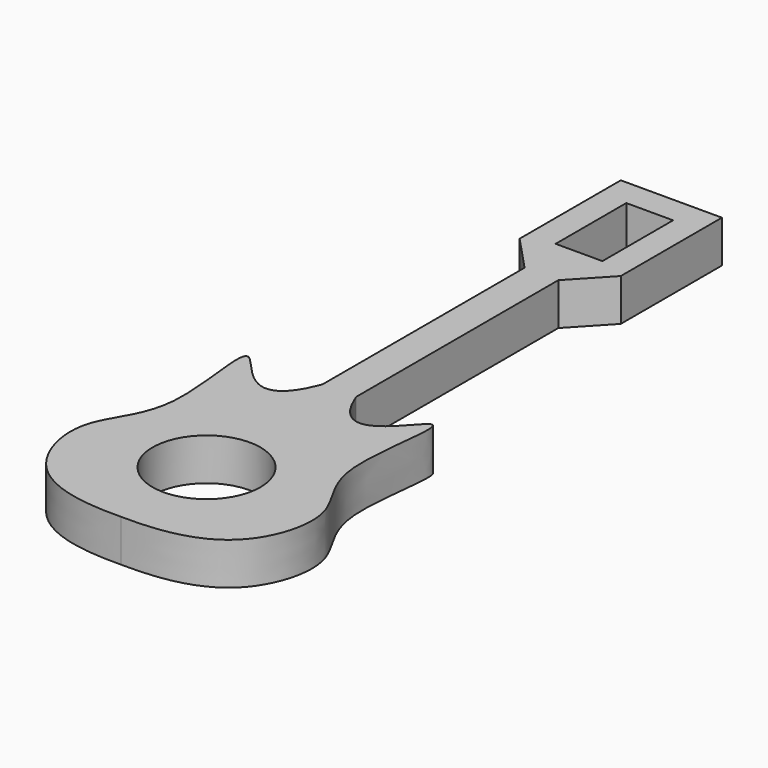
from build123d import *

# Parameters (mm, degrees)
F0_R     = 6.4
F0_W     = 5.5519272573
F0_H     = 10.4806795716
F1_DEPTH = 5


with BuildPart() as f1:
    # F0 (on Top) → F1 (new body)
    with BuildSketch(Plane.XY):
        with BuildLine():
            Line((0, 68.9363212883), (-6, 68.9363212883))
            Line((-6, 68.9363212883), (-6, 53.9363212883))
            Line((-6, 53.9363212883), (-2, 49.6677327434))
            Line((-2, 49.6677327434), (-2, 19.6677327434))
            add(Edge.make_bspline(
                [(-2, 19.6677327434), (-5.2045350894, 11.3742742687), (-13.9616531978, 27.2349557552), (-8.5925210718, 6.3765498017), (-15.2458199495, 0.8625510948), (-13.5668635451, -9.1165038385), (-7.5715340142, -12.8564407231), (0, -12.7030955628)],
                knots=[0, 0, 0, 0, 0.1866895357, 0.3977848748, 0.5894294289, 0.7644459309, 1, 1, 1, 1], degree=3))
            add(Edge.make_bspline(
                [(2, 19.6677327434), (5.2045350894, 11.3742742687), (13.9616531978, 27.2349557552), (8.5925210718, 6.3765498017), (15.2458199495, 0.8625510948), (13.5668635451, -9.1165038385), (7.5715340142, -12.8564407231), (0, -12.7030955628)],
                knots=[0, 0, 0, 0, 0.1866895357, 0.3977848748, 0.5894294289, 0.7644459309, 1, 1, 1, 1], degree=3))
            Line((2, 19.6677327434), (2, 49.6677327434))
            Line((2, 49.6677327434), (6, 53.9363212883))
            Line((6, 53.9363212883), (6, 68.9363212883))
            Line((6, 68.9363212883), (0, 68.9363212883))
        make_face()
        Circle(F0_R, mode=Mode.SUBTRACT)
        with Locations((0.0244907569, 60.4523085058)):
            Rectangle(F0_W, F0_H, mode=Mode.SUBTRACT)
    extrude(amount=F1_DEPTH)


solid = f1.part
